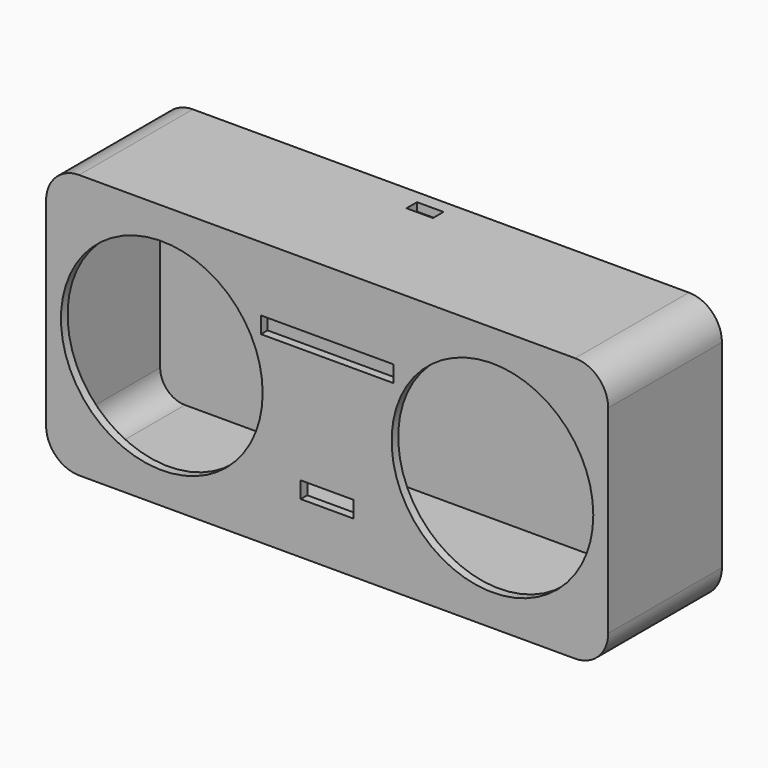
from build123d import *

# Parameters (mm, degrees)
F1_DEPTH  = 40
F2_T      = -2.5
F3_R      = 30.5
F4_DEPTH  = 5
F6_DEPTH  = 3
F7_W      = 40
F7_H      = 5
F8_DEPTH  = 5
F9_W      = 16
F9_H      = 5
F10_DEPTH = 5
F11_W     = 8
F11_H     = 4
F12_DEPTH = 2.5


with BuildPart() as f1:
    # F0 (on Front) → F1 (new body)
    with BuildSketch(Plane.XZ):
        with BuildLine():
            ThreePointArc((85, 30), (82.0710678119, 37.0710678119), (75, 40))
            Line((75, 40), (-75, 40))
            ThreePointArc((-75, 40), (-82.0710678119, 37.0710678119), (-85, 30))
            Line((-85, 30), (-85, -30))
            ThreePointArc((-85, -30), (-82.0710678119, -37.0710678119), (-75, -40))
            Line((-75, -40), (75, -40))
            ThreePointArc((75, -40), (82.0710678119, -37.0710678119), (85, -30))
            Line((85, -30), (85, 30))
        make_face()
    extrude(amount=F1_DEPTH)

    # F2
    f2_openings = [f1.faces().sort_by_distance(p)[0] for p in [
        (0, 0, 0),
    ]]
    offset(amount=F2_T, openings=f2_openings)

    # F3 (on face) → F4 (cut)
    with BuildSketch(Plane.XZ.offset(40)):
        with Locations((-50, 0)):
            Circle(F3_R)
        with Locations((50, 0)):
            Circle(F3_R)
    extrude(amount=-F4_DEPTH, mode=Mode.SUBTRACT)

    # F5 (on face) → F6 (join)
    with BuildSketch(Plane(origin=(0, 0, 0), x_dir=(-1, 0, 0), z_dir=(0, 1, 0))):
        with BuildLine():
            Line((-85, 30), (-85, -30))
            ThreePointArc((-85, -30), (-82.0710678119, -37.0710678119), (-75, -40))
            Line((-75, -40), (75, -40))
            ThreePointArc((75, -40), (82.0710678119, -37.0710678119), (85, -30))
            Line((85, -30), (85, 30))
            ThreePointArc((85, 30), (82.0710678119, 37.0710678119), (75, 40))
            Line((75, 40), (-75, 40))
            ThreePointArc((-75, 40), (-82.0710678119, 37.0710678119), (-85, 30))
        make_face()
        with BuildLine():
            Line((75, -37.5), (-75, -37.5))
            ThreePointArc((-75, -37.5), (-80.3033008589, -35.3033008589), (-82.5, -30))
            Line((-82.5, -30), (-82.5, 30))
            ThreePointArc((-82.5, 30), (-80.3033008589, 35.3033008589), (-75, 37.5))
            Line((-75, 37.5), (75, 37.5))
            ThreePointArc((75, 37.5), (80.3033008589, 35.3033008589), (82.5, 30))
            Line((82.5, 30), (82.5, -30))
            ThreePointArc((82.5, -30), (80.3033008589, -35.3033008589), (75, -37.5))
        make_face(mode=Mode.SUBTRACT)
        with BuildLine():
            ThreePointArc((-82.5, -30), (-80.3033008589, -35.3033008589), (-75, -37.5))
            Line((-75, -37.5), (75, -37.5))
            ThreePointArc((75, -37.5), (80.3033008589, -35.3033008589), (82.5, -30))
            Line((82.5, -30), (82.5, 30))
            ThreePointArc((82.5, 30), (80.3033008589, 35.3033008589), (75, 37.5))
            Line((75, 37.5), (-75, 37.5))
            ThreePointArc((-75, 37.5), (-80.3033008589, 35.3033008589), (-82.5, 30))
            Line((-82.5, 30), (-82.5, -30))
        make_face()
    extrude(amount=F6_DEPTH)

    # F7 (on face) → F8 (cut)
    with BuildSketch(Plane.XZ.offset(40)):
        with Locations((0, 18)):
            Rectangle(F7_W, F7_H)
    extrude(amount=-F8_DEPTH, mode=Mode.SUBTRACT)

    # F9 (on face) → F10 (cut)
    with BuildSketch(Plane.XZ.offset(40)):
        with Locations((0, -22)):
            Rectangle(F9_W, F9_H)
    extrude(amount=-F10_DEPTH, mode=Mode.SUBTRACT)

    # F11 (on face) → F12 (cut)
    with BuildSketch(Plane.XY.offset(40)):
        with Locations((0, -3)):
            Rectangle(F11_W, F11_H)
    extrude(amount=-F12_DEPTH, mode=Mode.SUBTRACT)


solid = f1.part
